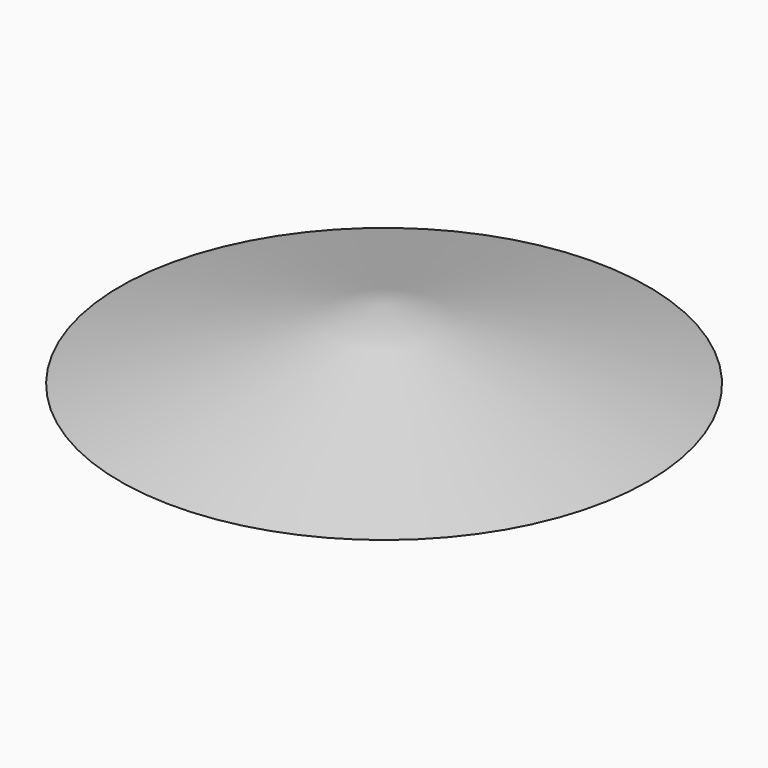
from build123d import *

# Parameters (mm, degrees)
F1_R = 75
F3_T = -2


with BuildPart() as f2:
    # F1 (on offset) → F2 section 0
    with BuildSketch(Plane.XY.offset(-20), mode=Mode.PRIVATE) as f2_s0:
        Circle(F1_R)
    loft([f2_s0.sketch, Vertex(0, 0, 0)])

    # F3
    f3_openings = [f2.faces().sort_by_distance(p)[0] for p in [
        (0, 0, -20),
    ]]
    offset(amount=F3_T, openings=f3_openings)


solid = f2.part
